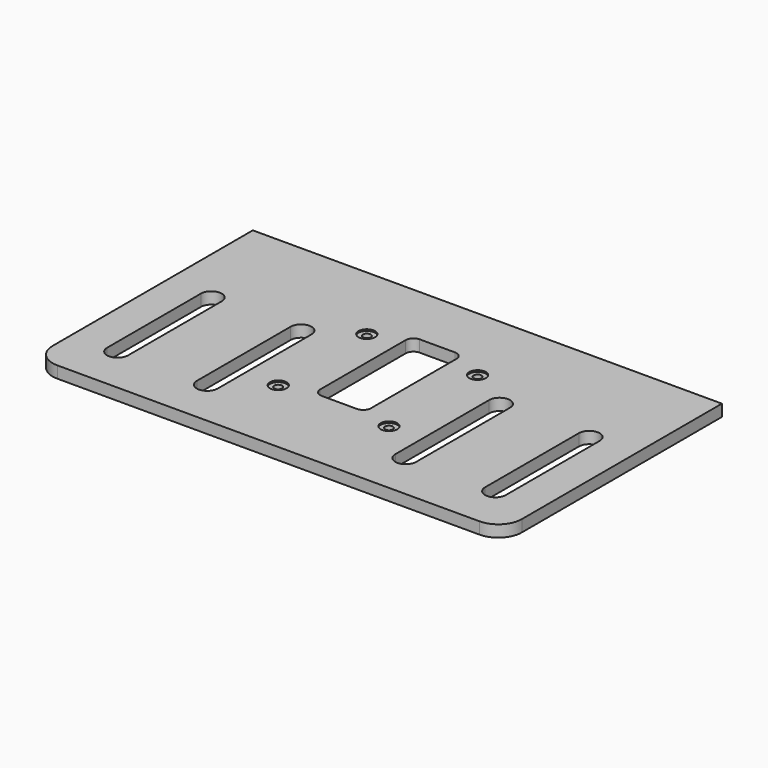
from build123d import *

# Parameters (mm, degrees)
PAD_DEPTH       = 18
SKETCH001_R     = 6
POCKET_DEPTH    = 18
SKETCH006_R     = 12.75
POCKET003_DEPTH = 2.4


with BuildPart() as part:
    # Sketch → Pad (new body)
    with BuildSketch(Plane.XY):
        with BuildLine():
            Line((-360, 420), (360, 420))
            Line((360, 420), (360, 36))
            ThreePointArc((324, 0), (349.455844, 10.544156), (360, 36))
            Line((324, 0), (-324, 0))
            ThreePointArc((-360, 36), (-349.455844, 10.544156), (-324, 0))
            Line((-360, 36), (-360, 420))
        make_face()
    extrude(amount=PAD_DEPTH)

    # Sketch001 → Pocket (cut)
    with BuildSketch(Plane.XY.offset(18)):
        with Locations((-85, 125)):
            Circle(SKETCH001_R)
        with Locations((-85, 295)):
            Circle(SKETCH001_R)
        with Locations((85, 295)):
            Circle(SKETCH001_R)
        with Locations((85, 125)):
            Circle(SKETCH001_R)
        with BuildLine():
            ThreePointArc((-274, 253), (-290, 269), (-306, 253))
            Line((-306, 253), (-306, 73))
            ThreePointArc((-306, 73), (-290, 57), (-274, 73))
            Line((-274, 73), (-274, 253))
        make_face()
        with BuildLine():
            ThreePointArc((-136.333333, 253), (-152.333333, 269), (-168.333333, 253))
            Line((-168.333333, 253), (-168.333333, 73))
            ThreePointArc((-168.333333, 73), (-152.333333, 57), (-136.333333, 73))
            Line((-136.333333, 73), (-136.333333, 253))
        make_face()
        with BuildLine():
            ThreePointArc((306, 253), (290, 269), (274, 253))
            Line((274, 73), (274, 253))
            ThreePointArc((274, 73), (290, 57), (306, 73))
            Line((306, 253), (306, 73))
        make_face()
        with BuildLine():
            ThreePointArc((168.333333, 253), (152.333333, 269), (136.333333, 253))
            Line((136.333333, 73), (136.333333, 253))
            ThreePointArc((136.333333, 73), (152.333333, 57), (168.333333, 73))
            Line((168.333333, 253), (168.333333, 73))
        make_face()
        with BuildLine():
            Line((-27, 324), (27, 324))
            ThreePointArc((39, 312), (35.485281, 320.485281), (27, 324))
            Line((39, 312), (39, 148))
            ThreePointArc((27, 136), (35.485281, 139.514719), (39, 148))
            Line((27, 136), (-27, 136))
            ThreePointArc((-39, 148), (-35.485281, 139.514719), (-27, 136))
            Line((-39, 148), (-39, 312))
            ThreePointArc((-27, 324), (-35.485281, 320.485281), (-39, 312))
        make_face()
    extrude(amount=-POCKET_DEPTH, mode=Mode.SUBTRACT)

    # Sketch006 → Pocket003 (cut)
    with BuildSketch(Plane.XY.offset(18)):
        with Locations((-85, 295)):
            Circle(SKETCH006_R)
        with Locations((85, 295)):
            Circle(SKETCH006_R)
        with Locations((-85, 125)):
            Circle(SKETCH006_R)
        with Locations((85, 125)):
            Circle(SKETCH006_R)
    extrude(amount=-POCKET003_DEPTH, mode=Mode.SUBTRACT)


solid = part.part
